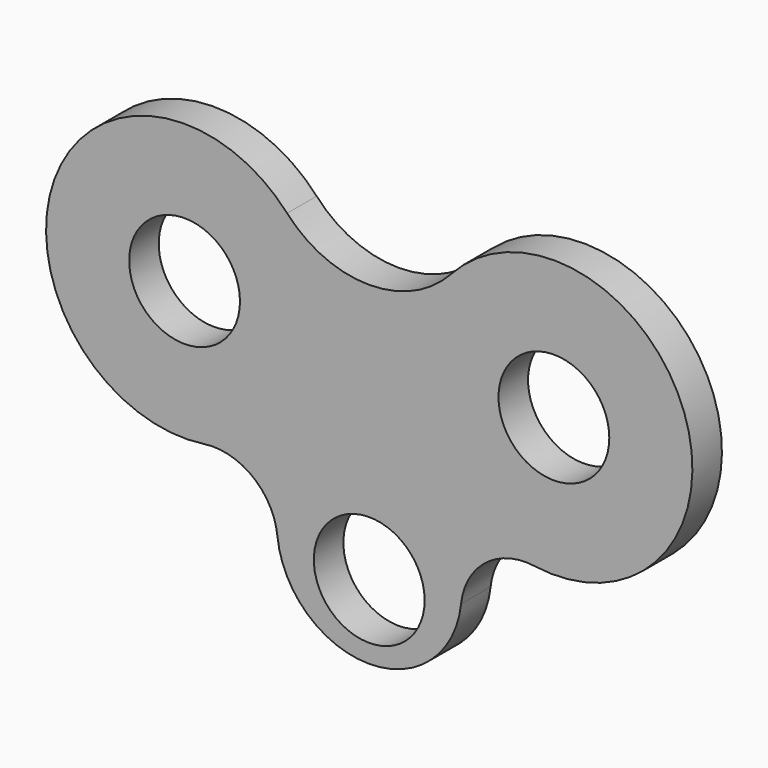
from build123d import *

# Parameters (mm, degrees)
F0_R     = 3
F1_DEPTH = 2


with BuildPart() as f1:
    # F0 (on Front) → F1 (new body)
    with BuildSketch(Plane.XZ):
        with BuildLine():
            ThreePointArc((4.444444, 5.038433), (0, 3.069179), (-4.444444, 5.038433))
            ThreePointArc((-4.444444, 5.038433), (-17.054143, 2.547366), (-8.945366, -7.42548))
            ThreePointArc((-8.945366, -7.42548), (-6.300762, -8.130813), (-4.972473, -10.523943))
            ThreePointArc((-4.972473, -10.523943), (0, -15), (4.972473, -10.523943))
            ThreePointArc((4.972473, -10.523943), (6.300762, -8.130813), (8.945366, -7.42548))
            ThreePointArc((8.945366, -7.42548), (17.054143, 2.547366), (4.444444, 5.038433))
        make_face()
        with Locations((0, -11)):
            Circle(F0_R, mode=Mode.SUBTRACT)
        with Locations((-10, 0)):
            Circle(F0_R, mode=Mode.SUBTRACT)
        with Locations((10, 0)):
            Circle(F0_R, mode=Mode.SUBTRACT)
    extrude(amount=F1_DEPTH)


solid = f1.part
